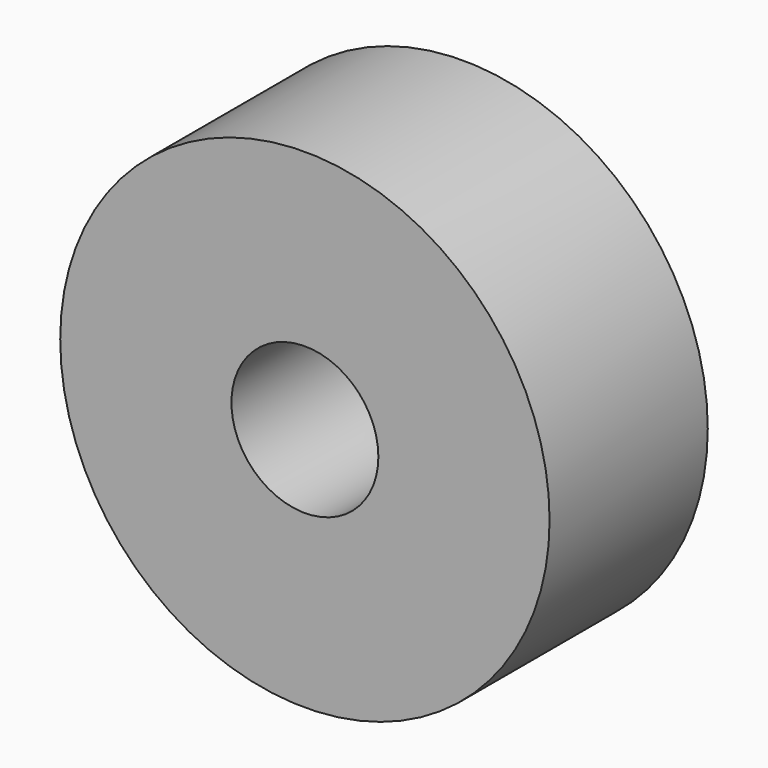
from build123d import *

# Parameters (mm, degrees)
F1_R        = 28.961798
F0_R        = 28.961798
F0_R_2      = 12.26647
F0_R_3      = 40.858307
F2_DEPTH    = 7.62
F2_FACE_R   = 40.858307
F2_FACE_R_2 = 12.26647
F3_DEPTH    = 25.4


with BuildPart() as f2:
    # F1 (on face) + F0 (on Front) → F2 (new body)
    with BuildSketch(Plane.XZ):
        Circle(F1_R)
        with BuildLine():
            ThreePointArc((8.694968, 8.652388), (11.338493, 4.680263), (12.26647, 0))
            ThreePointArc((12.26647, 0), (-6.957086, -10.102734), (-4.374868, 11.459791))
            ThreePointArc((-4.374868, 11.459791), (2.576081, 11.992918), (8.694968, 8.652388))
        make_face(mode=Mode.SUBTRACT)
    with BuildSketch(Plane.XZ):
        Circle(F0_R)
        Circle(F0_R_2, mode=Mode.SUBTRACT)
        Circle(F0_R_3)
        Circle(F0_R, mode=Mode.SUBTRACT)
    extrude(amount=F2_DEPTH)

    # F2_face (on face) → F3 (join)
    with BuildSketch(Plane.XZ.offset(7.62)):
        Circle(F2_FACE_R)
        Circle(F2_FACE_R_2, mode=Mode.SUBTRACT)
    extrude(amount=F3_DEPTH)


solid = f2.part
